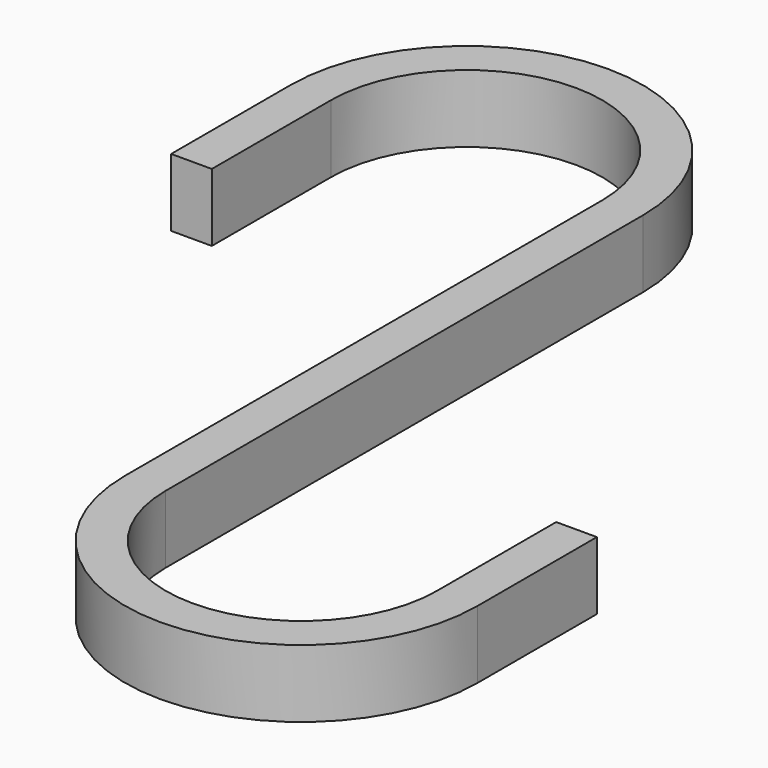
from build123d import *

# Parameters (mm, degrees)
PAD_DEPTH = 5


with BuildPart() as part:
    # Sketch → Pad (new body)
    with BuildSketch(Plane.XY):
        with BuildLine():
            Line((-1.5, 22), (-1.5, -22))
            ThreePointArc((-1.5, -22), (11.5, -35), (24.5, -22))
            Line((24.5, -11), (24.5, -22))
            Line((21.5, -11), (24.5, -11))
            Line((21.5, -22), (21.5, -11))
            ThreePointArc((1.5, -22), (11.5, -32), (21.5, -22))
            Line((1.5, 22), (1.5, -22))
            ThreePointArc((1.5, 22), (-11.5, 35), (-24.5, 22))
            Line((-24.5, 11), (-24.5, 22))
            Line((-21.5, 11), (-24.5, 11))
            Line((-21.5, 22), (-21.5, 11))
            ThreePointArc((-1.5, 22), (-11.5, 32), (-21.5, 22))
        make_face()
    extrude(amount=PAD_DEPTH)


solid = part.part
